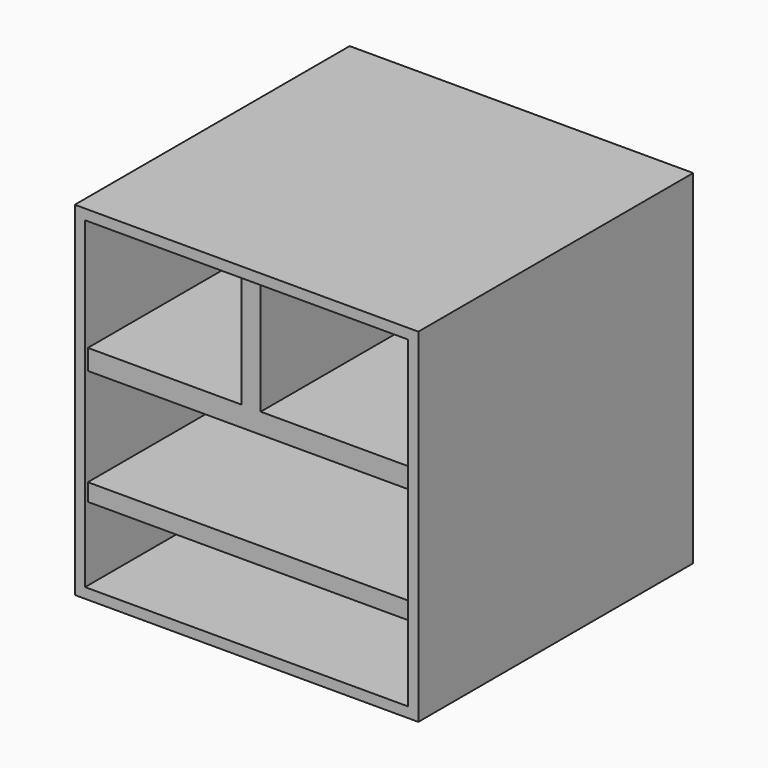
from build123d import *

# Parameters (mm, degrees)
F0_W     = 300
F0_H     = 300
F1_DEPTH = 300
F2_T     = -9
F3_W     = 282
F3_H     = 15.1234567165
F3_W_2   = 16.8518549763
F3_H_2   = 10.3703700006
F3_H_3   = 99.3024680614
F4_DEPTH = 288


with BuildPart() as f1:
    # F0 (on Front) → F1 (new body)
    with BuildSketch(Plane.XZ):
        Rectangle(F0_W, F0_H)
    extrude(amount=-F1_DEPTH)

    # F2
    f2_openings = [f1.faces().sort_by_distance(p)[0] for p in [
        (0, 0, 0),
    ]]
    offset(amount=F2_T, openings=f2_openings)

    # F3 (on face) → F4 (join)
    with BuildSketch(Plane.XZ.offset(-291)):
        Polygon((-141, 41.6975319386), (-141, 23.9814817905), (141, 23.9814817905), (141, 41.6975319386), (9.9382726476, 41.6975319386), (9.9382726476, 31.327161938), (-6.9135823287, 31.327161938), (-6.9135823287, 41.6975319386), align=None)
        with Locations((0, -69.1358074546)):
            Rectangle(F3_W, F3_H)
        with Locations((1.5123451594, 36.5123469383)):
            Rectangle(F3_W_2, F3_H_2)
        with Locations((1.5123451594, 91.3487659693)):
            Rectangle(F3_W_2, F3_H_3)
    extrude(amount=F4_DEPTH)


solid = f1.part
